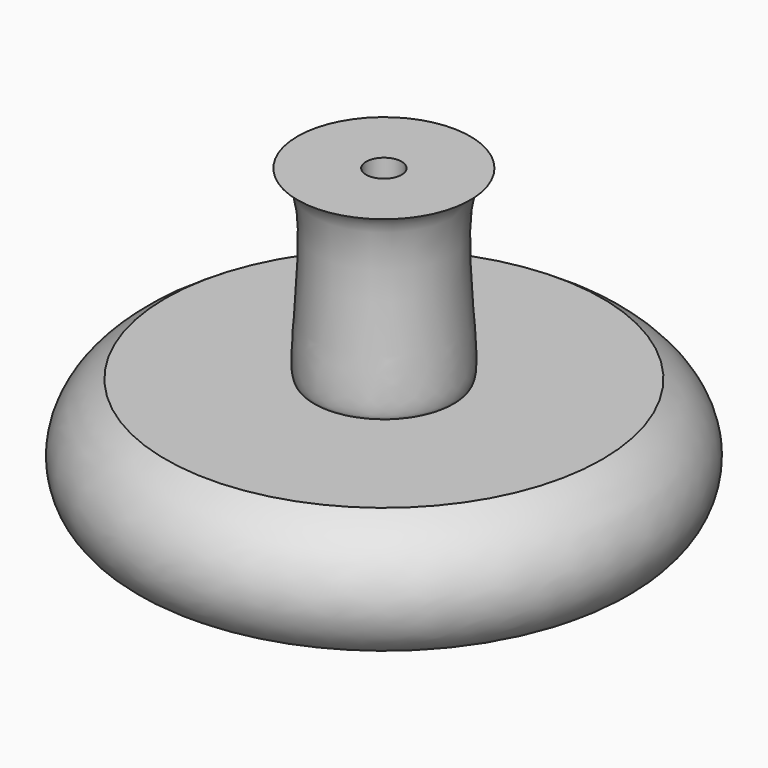
from build123d import *


with BuildPart() as f1:
    # F0 (on Front) → F1 (revolve)
    with BuildSketch(Plane.XZ):
        with BuildLine():
            add(Edge.make_bspline(
                [(-22.9642885055, 49.3032115787), (-12.2969623123, 46.4702763814), (-22.4618348296, 0), (-18.1075624479, 0)],
                knots=[2.9191818186, 2.9191818186, 2.9191818186, 2.9191818186, 49.811763635, 49.811763635, 49.811763635, 49.811763635], degree=3))
            Line((-18.1075624479, 0), (-58.0540070499, 0))
            add(Edge.make_bspline(
                [(-58.0540070499, 0), (-77.442342212, -11.0468430516), (-61.7601881483, -58.9445413015), (-14.4063218335, 1.1245636718), (-2.5255118479, -22.637057851)],
                knots=[0, 0, 0, 0, 0.4307775151, 1, 1, 1, 1], degree=3))
            Line((-2.5255118479, -22.637057851), (-1.5875, -34.4977003213))
            Line((-1.5875, -34.4977003213), (-1.5875, -17.4797003213))
            Line((-1.5875, -17.4797003213), (0, -17.4797003213))
            Line((0, -17.4797003213), (0, 35.7623191787))
            Line((0, 35.7623191787), (-4.73075, 35.7623191787))
            Line((-4.73075, 35.7623191787), (-4.73075, 49.3032115787))
            add(Edge.make_bspline(
                [(-4.73075, 49.3032115787), (-10.7331998616, 49.3032115787), (-17.0701686457, 49.3032115787), (-22.9642885055, 49.3032115787)],
                knots=[4.8317135305, 4.8317135305, 4.8317135305, 4.8317135305, 22.8923422862, 22.8923422862, 22.8923422862, 22.8923422862], degree=3))
        make_face()
    revolve(axis=Axis((0, 0, 9.1413094287), (0, 0, -1)))


solid = f1.part
